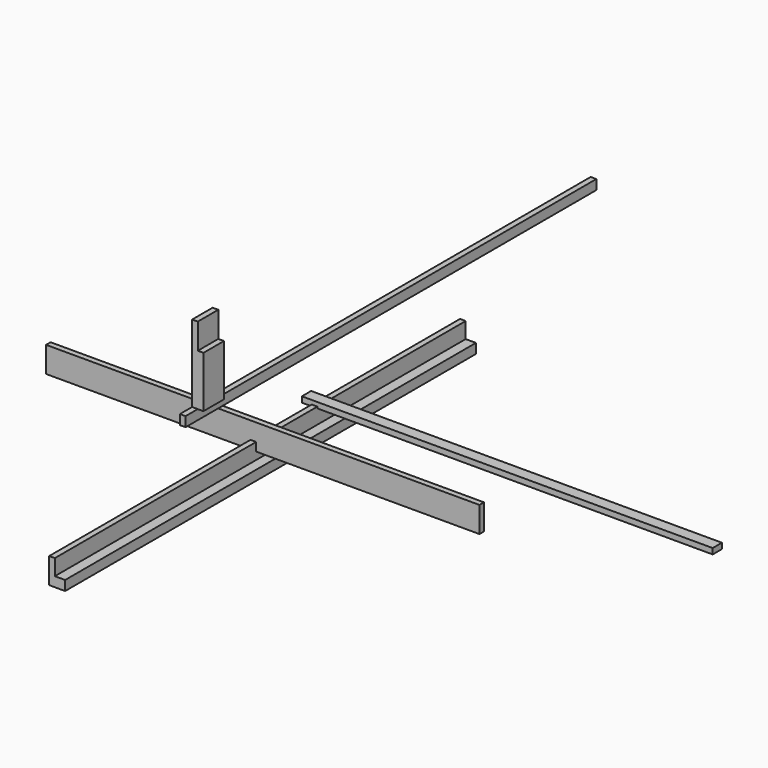
from build123d import *

# Parameters (mm, degrees)
F1_W      = 2000
F1_H      = 62
F2_DEPTH  = 22
F1_H_2    = 38
F3_DEPTH  = 62
F4_W      = 1688
F4_H      = 100
F5_DEPTH  = 22
F6_W      = 2000
F6_H      = 38
F7_DEPTH  = 22
F8_W      = 1600
F8_H      = 45
F9_DEPTH  = 22
F10_W     = 100
F10_H     = 100
F11_DEPTH = 22
F10_H_2   = 200
F12_DEPTH = 44


with BuildPart() as f2:
    # F1 (on Right) → F2 (new body)
    with BuildSketch(Plane.YZ):
        with Locations((-1.9598416984, -24.7590313256)):
            Rectangle(F1_W, F1_H)
    extrude(amount=F2_DEPTH)

    # F1 (on Right) → F3 (join)
    with BuildSketch(Plane.YZ):
        with Locations((-1.9598416984, -74.7590313256)):
            Rectangle(F1_W, F1_H_2)
    extrude(amount=F3_DEPTH)


with BuildPart() as f5:
    # F4 (on Front) → F5 (new body)
    with BuildSketch(Plane.XZ):
        with Locations((47.8171780705, 23.0740644909)):
            Rectangle(F4_W, F4_H)
    extrude(amount=F5_DEPTH)


with BuildPart() as f7:
    # F6 (on Right) → F7 (new body)
    with BuildSketch(Plane.YZ):
        with Locations((634.180099352, 215.4298871756)):
            Rectangle(F6_W, F6_H)
    extrude(amount=F7_DEPTH)


with BuildPart() as f9:
    # F8 (on Top) → F9 (new body)
    with BuildSketch(Plane.XY):
        with Locations((761.7220133543, 298.4766468961)):
            Rectangle(F8_W, F8_H)
    extrude(amount=F9_DEPTH)


with BuildPart() as f11:
    # F10 (on Right) → F11 (new body)
    with BuildSketch(Plane.YZ):
        with Locations((-256.2956437469, 484.3538582325)):
            Rectangle(F10_W, F10_H)
    extrude(amount=F11_DEPTH)

    # F10 (on Right) → F12 (join)
    with BuildSketch(Plane.YZ):
        with Locations((-256.2956437469, 334.3538582325)):
            Rectangle(F10_W, F10_H_2)
    extrude(amount=F12_DEPTH)


solid = Compound([f2.part, f5.part, f7.part, f9.part, f11.part])
